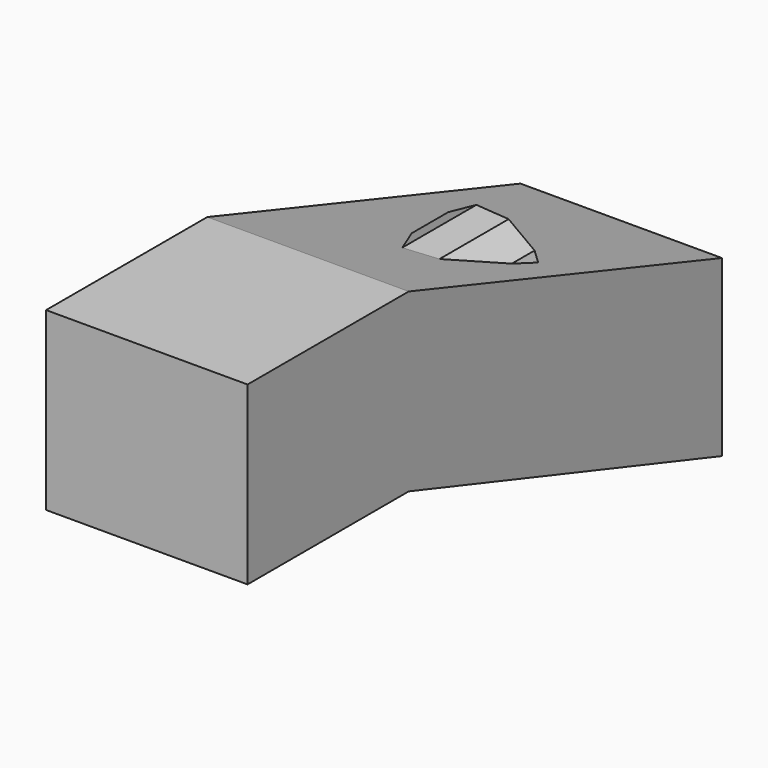
from build123d import *

# Parameters (mm, degrees)
F1_DEPTH = 152.4
F2_R     = 40.183896
F3_DEPTH = 152.4
F6_DEPTH = 152.4
F4_W     = 152.4
F4_H     = 133.139059
F7_DEPTH = 152.4


with BuildPart() as f1:
    # F0 (on Right) → F1 (new body)
    with BuildSketch(Plane.YZ):
        Polygon((133.199751, -96.874259), (133.199751, 35.027929), (-162.974715, 133.139059), (-162.974715, 0), align=None)
    extrude(amount=F1_DEPTH)

    # F2 (on face) → F3 (join)
    with BuildSketch(Plane(origin=(0, 133.199751, 0), x_dir=(-1, 0, 0), z_dir=(0, 1, 0))):
        with Locations((-104.681633, -19.83037)):
            Circle(F2_R)
    extrude(amount=-F3_DEPTH)

    # F5 (on face) → F6 (join)
    with BuildSketch(Plane.XZ.offset(162.974715)):
        Polygon((50.672299, 48.260029), (65.408134, 28.808561), (88.320964, 20.411739), (112.136128, 25.735493), (129.29248, 43.089571), (134.342999, 66.964174), (125.684181, 89.779285), (106.06514, 104.291267), (81.714782, 105.892669), (60.364175, 94.075056), (48.791984, 72.590438), align=None)
    extrude(amount=-F6_DEPTH)

    # F4 (on face) → F7 (join)
    with BuildSketch(Plane.XZ.offset(162.974715)):
        with Locations((76.2, 66.56953)):
            Rectangle(F4_W, F4_H)
    extrude(amount=F7_DEPTH)


solid = f1.part
